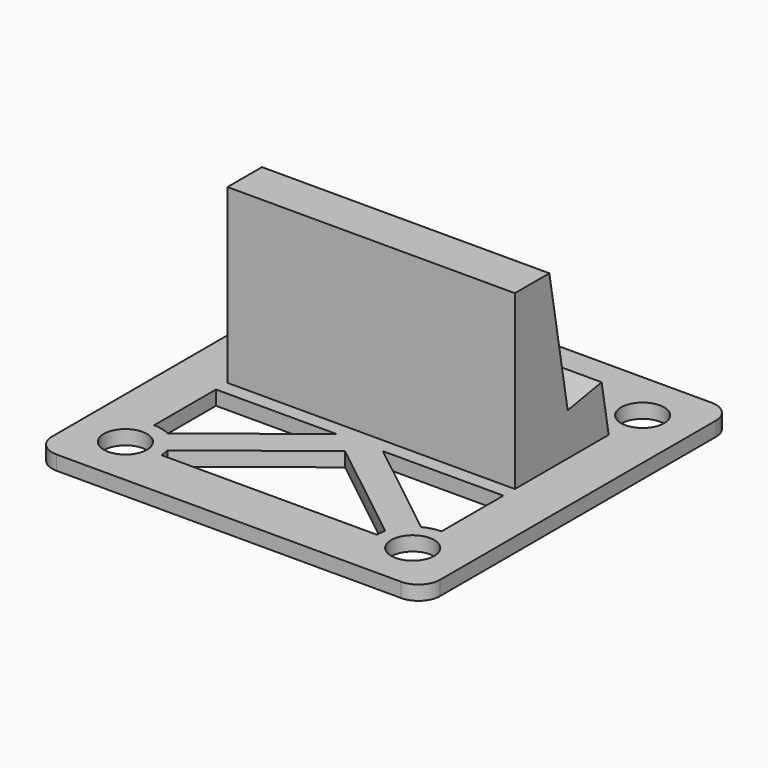
from build123d import *

# Parameters (mm, degrees)
F1_DEPTH = 1
F3_DEPTH = 10
F4_D     = 3
F4_DEPTH = 5
F6_DEPTH = 25


with BuildPart() as f1:
    # F0 (on Top) → F1 (new body)
    with BuildSketch(Plane.XY):
        with BuildLine():
            Line((12, 13.5), (-12, 13.5))
            ThreePointArc((-12, 13.5), (-13.06066, 13.06066), (-13.5, 12))
            Line((-13.5, 12), (-13.5, -12))
            ThreePointArc((-13.5, -12), (-13.06066, -13.06066), (-12, -13.5))
            Line((-12, -13.5), (12, -13.5))
            ThreePointArc((12, -13.5), (13.06066, -13.06066), (13.5, -12))
            Line((13.5, -12), (13.5, 12))
            ThreePointArc((13.5, 12), (13.06066, 13.06066), (12, 13.5))
        make_face()
    extrude(amount=F1_DEPTH)

    # F2 (on Right) → F3 (join, symmetric)
    with BuildSketch(Plane.YZ):
        Polygon((6.433479, 4.475368), (3.479055, 3.954423), (1.884076, 13), (-1.115924, 13), (-1.115924, 1), (4, 1), (7.04628, 1), align=None)
    extrude(amount=F3_DEPTH, both=True)

    # F4
    with Locations(Plane(origin=(0, 0, 0), x_dir=(1, 0, 0), z_dir=(0, 0, -1))):
        with Locations((10, -10), (-10, -10), (-10, 10), (10, 10)):
            Hole(F4_D / 2, depth=F4_DEPTH)

    # F5 (on face) → F6 (cut)
    with BuildSketch(Plane.XY.offset(1)):
        with BuildLine():
            Line((-1.615174, -2.115924), (-10, -2.115924))
            Line((-10, -2.115924), (-10, -7.5))
            ThreePointArc((-10, -7.5), (-9.391612, -7.575157), (-8.819804, -7.796109))
            Line((-8.819804, -7.796109), (-1.615174, -2.115924))
        make_face()
        with BuildLine():
            ThreePointArc((-7.581547, -9.366688), (-7.52047, -9.68073), (-7.5, -10))
            Line((-7.5, -10), (7.5, -10))
            ThreePointArc((7.5, -10), (7.52047, -9.68073), (7.581547, -9.366688))
            Line((7.581547, -9.366688), (0, -3.389339))
            Line((0, -3.389339), (-7.581547, -9.366688))
        make_face()
        with BuildLine():
            ThreePointArc((8.819804, -7.796109), (9.391612, -7.575157), (10, -7.5))
            Line((10, -7.5), (10, -2.115924))
            Line((10, -2.115924), (1.615174, -2.115924))
            Line((1.615174, -2.115924), (8.819804, -7.796109))
        make_face()
    extrude(amount=-F6_DEPTH, mode=Mode.SUBTRACT)


solid = f1.part
